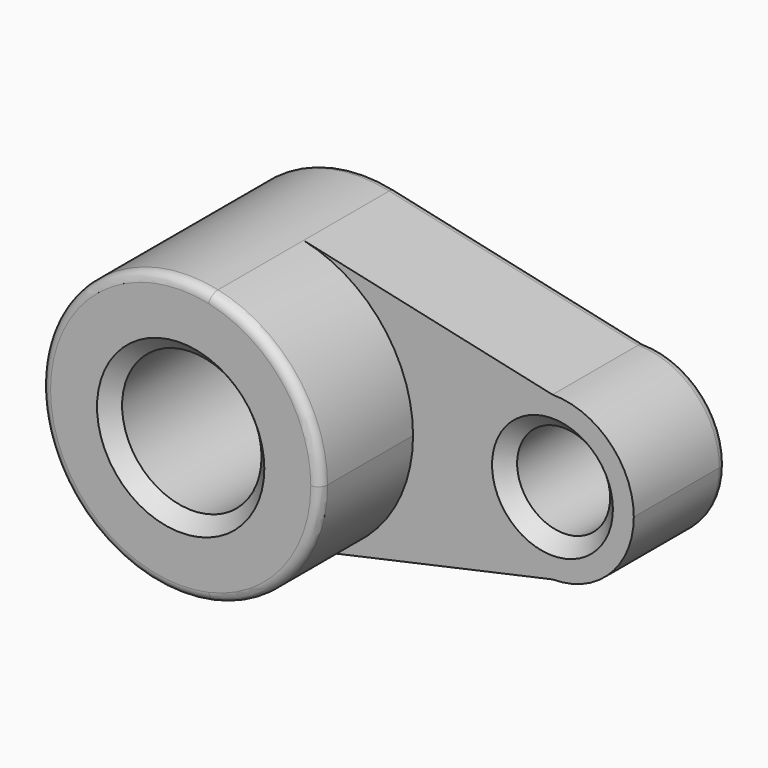
from build123d import *

# Parameters (mm, degrees)
F0_R     = 15
F0_R_2   = 10
F1_DEPTH = 25
F2_DEPTH = 50
F3_R     = 2
F4_SIZE  = 3


with BuildPart() as f1:
    # F0 (on Front) → F1 (new body)
    with BuildSketch(Plane.XZ):
        with BuildLine():
            ThreePointArc((6.454945, -29.297332), (23.384272, -18.792973), (30, 0))
            ThreePointArc((30, 0), (23.384272, 18.792973), (6.454945, 29.297332))
            ThreePointArc((6.454945, 29.297332), (-30, 0), (6.454945, -29.297332))
        make_face()
        Circle(F0_R, mode=Mode.SUBTRACT)
        with BuildLine():
            ThreePointArc((6.454945, 29.297332), (23.384272, 18.792973), (30, 0))
            ThreePointArc((30, 0), (23.384272, -18.792973), (6.454945, -29.297332))
            Line((6.454945, -29.297332), (60, -17.5))
            ThreePointArc((60, -17.5), (42.5, 0), (60, 17.5))
            Line((60, 17.5), (6.454945, 29.297332))
        make_face()
        with BuildLine():
            ThreePointArc((77.5, 0), (72.374369, 12.374369), (60, 17.5))
            ThreePointArc((60, 17.5), (42.5, 0), (60, -17.5))
            ThreePointArc((60, -17.5), (72.374369, -12.374369), (77.5, 0))
        make_face()
        with Locations((60, 0)):
            Circle(F0_R_2, mode=Mode.SUBTRACT)
    extrude(amount=F1_DEPTH)

    # F0 (on Front) → F2 (join)
    with BuildSketch(Plane.XZ):
        with BuildLine():
            ThreePointArc((6.454945, -29.297332), (23.384272, -18.792973), (30, 0))
            ThreePointArc((30, 0), (23.384272, 18.792973), (6.454945, 29.297332))
            ThreePointArc((6.454945, 29.297332), (-30, 0), (6.454945, -29.297332))
        make_face()
        Circle(F0_R, mode=Mode.SUBTRACT)
    extrude(amount=F2_DEPTH)

    # F3
    f3_edges = [f1.edges().sort_by_distance(p)[0] for p in [
        (33.227472, 0, -23.398666),
        (-6.454945, -50, 29.297332),
        (77.5, 0, 0),
        (-30, 0, 0),
        (33.227472, 0, 23.398666),
    ]]
    fillet(f3_edges, radius=F3_R)

    # F4
    f4_edges = [f1.edges().sort_by_distance(p)[0] for p in [
        (-15, -50, 0),
        (50, -25, 0),
    ]]
    chamfer(f4_edges, length=F4_SIZE)


solid = f1.part
